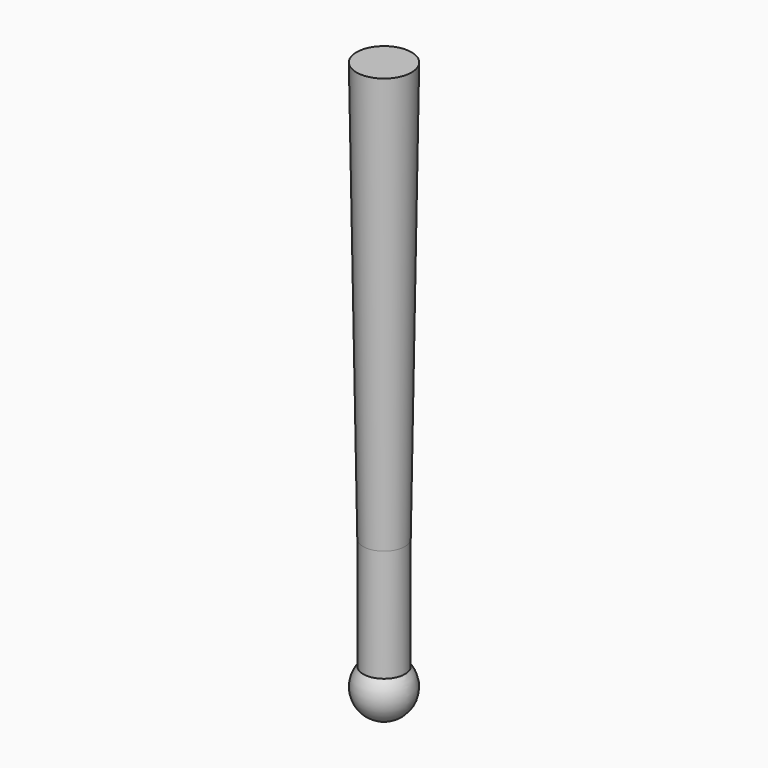
from build123d import *


with BuildPart() as f1:
    # F0 (on Front) → F1 (revolve)
    with BuildSketch(Plane.XZ):
        with BuildLine():
            Line((0, 50), (0, 0))
            Line((0, 0), (0, -2.5))
            ThreePointArc((0, -2.5), (2.270685, -1.04594), (1.9, 1.624808))
            Line((1.9, 1.624808), (1.9, 11.839204))
            add(Edge.make_bspline(
                [(2.5, 50), (2.3, 37.279735), (2.1, 24.55947), (1.9, 11.839204)],
                knots=[0, 0, 0, 0, 38.165512, 38.165512, 38.165512, 38.165512], degree=3))
            Line((2.5, 50), (0, 50))
        make_face()
    revolve(axis=Axis((0, 0, 25), (0, 0, 1)))


solid = f1.part
